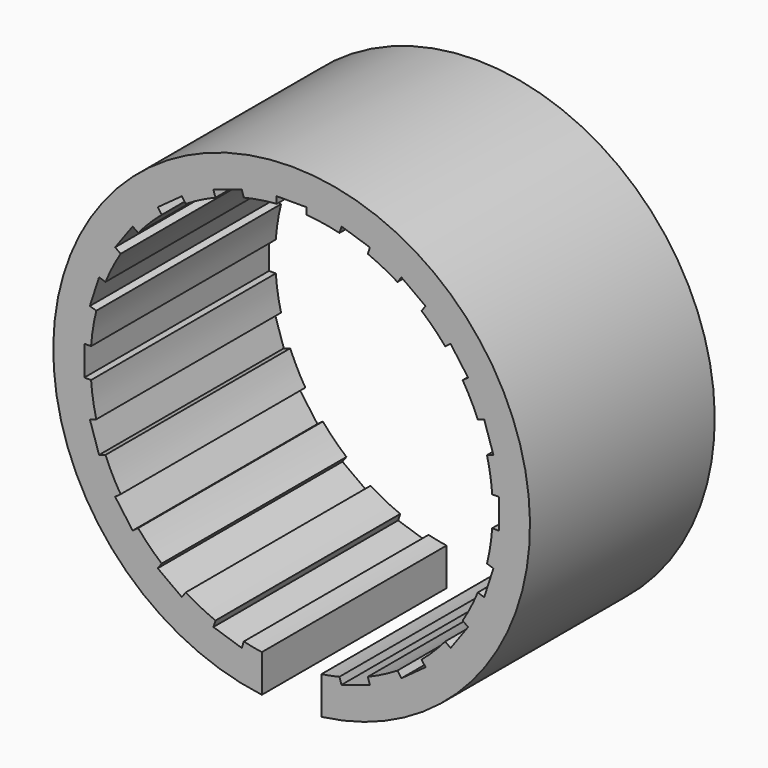
from build123d import *

# Parameters (mm, degrees)
F0_R     = 16
F0_R_2   = 13.5
F1_DEPTH = 15.5
F2_W     = 4
F2_H     = 19.090906
F3_DEPTH = 25
F4_W     = 2
F4_H     = 0.5
F4_W_2   = 0.5
F4_H_2   = 2
F5_DEPTH = 25


with BuildPart() as f1:
    # F0 (on Front) → F1 (new body)
    with BuildSketch(Plane.XZ):
        Circle(F0_R)
        Circle(F0_R_2, mode=Mode.SUBTRACT)
    extrude(amount=F1_DEPTH)

    # F2 (on Top) → F3 (cut)
    with BuildSketch(Plane.XY):
        with Locations((0, -8.067074)):
            Rectangle(F2_W, F2_H)
    extrude(amount=-F3_DEPTH, mode=Mode.SUBTRACT)

    # F4 (on Front) → F5 (cut, symmetric)
    with BuildSketch(Plane.XZ):
        with Locations((0, 13.665518)):
            Rectangle(F4_W, F4_H)
        Polygon((-5.251188, 12.925427), (-5.09668, 12.449899), (-3.194566, 13.067933), (-3.349075, 13.543461), align=None)
        Polygon((-8.988353, 10.670105), (-8.694461, 10.265597), (-7.076427, 11.441167), (-7.370319, 11.845676), align=None)
        Polygon((-11.845676, 7.370319), (-11.441167, 7.076427), (-10.265597, 8.694461), (-10.670105, 8.988353), align=None)
        Polygon((-13.543461, 3.349075), (-13.067933, 3.194566), (-12.449899, 5.09668), (-12.925427, 5.251188), align=None)
        with Locations((-13.665518, 0)):
            Rectangle(F4_W_2, F4_H_2)
        Polygon((-12.925427, -5.251188), (-12.449899, -5.09668), (-13.067933, -3.194566), (-13.543461, -3.349075), align=None)
        Polygon((-10.670105, -8.988353), (-10.265597, -8.694461), (-11.441167, -7.076427), (-11.845676, -7.370319), align=None)
        Polygon((-7.370319, -11.845676), (-7.076427, -11.441167), (-8.694461, -10.265597), (-8.988353, -10.670105), align=None)
        Polygon((-3.349075, -13.543461), (-3.194566, -13.067933), (-5.09668, -12.449899), (-5.251188, -12.925427), align=None)
        with Locations((0, -13.665518)):
            Rectangle(F4_W, F4_H)
        Polygon((5.251188, -12.925427), (5.09668, -12.449899), (3.194566, -13.067933), (3.349075, -13.543461), align=None)
        Polygon((8.988353, -10.670105), (8.694461, -10.265597), (7.076427, -11.441167), (7.370319, -11.845676), align=None)
        Polygon((11.845676, -7.370319), (11.441167, -7.076427), (10.265597, -8.694461), (10.670105, -8.988353), align=None)
        Polygon((13.543461, -3.349075), (13.067933, -3.194566), (12.449899, -5.09668), (12.925427, -5.251188), align=None)
        with Locations((13.665518, 0)):
            Rectangle(F4_W_2, F4_H_2)
        Polygon((12.925427, 5.251188), (12.449899, 5.09668), (13.067933, 3.194566), (13.543461, 3.349075), align=None)
        Polygon((10.670105, 8.988353), (10.265597, 8.694461), (11.441167, 7.076427), (11.845676, 7.370319), align=None)
        Polygon((7.370319, 11.845676), (7.076427, 11.441167), (8.694461, 10.265597), (8.988353, 10.670105), align=None)
        Polygon((3.349075, 13.543461), (3.194566, 13.067933), (5.09668, 12.449899), (5.251188, 12.925427), align=None)
    extrude(amount=F5_DEPTH, both=True, mode=Mode.SUBTRACT)


solid = f1.part
